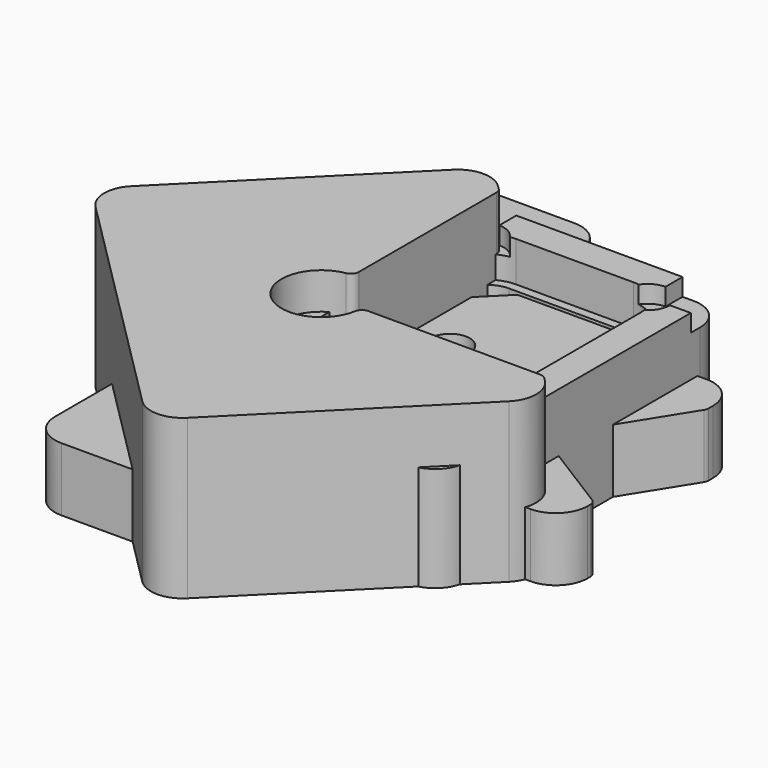
from build123d import *

# Parameters (mm, degrees)
SKETCH003_W             = 15.88
SKETCH003_H             = 22.34
PAD001_DEPTH            = 7.7
POCKET002_DEPTH         = 5.7
POCKET003_DEPTH         = 2.52
SKETCH007_W             = 5.44
SKETCH007_H             = 2.67
POCKET004_DEPTH         = 5.7
POCKET005_DEPTH         = 7.701
POCKET006_DEPTH         = 2
POCKET007_DEPTH         = 1.1
FILLET_R                = 1
FILLET001_R             = 2
FILLET011_R             = 0.5
BODY001_PLACEMENT_ANGLE = 180
PAD_DEPTH               = 4
FILLET002_R             = 0.5
FILLET003_R             = 0.5
FILLET004_R             = 2
FILLET012_R             = 2
BODY_PLACEMENT_ANGLE    = 90
PAD009_DEPTH            = 5
FILLET007_R             = 0.5
FILLET008_R             = 2
BODY010_PLACEMENT_ANGLE = 270
PAD010_DEPTH            = 10
FILLET005_R             = 0.5
FILLET006_R             = 2
PAD011_DEPTH            = 4
POCKET_DEPTH            = 1.89
FILLET009_R             = 0.5
FILLET010_R             = 2
BODY012_PLACEMENT_ANGLE = 180


with BuildPart() as obj1:
    # Sketch003 (on XY_Plane013 of Origin026) → Pad001 (new body)
    with BuildSketch(Plane.XY):
        Rectangle(SKETCH003_W, SKETCH003_H)
    extrude(amount=PAD001_DEPTH)

    # Sketch004 (on XY_Plane013 of Origin026) → Pocket002 (cut)
    with BuildSketch(Plane.XY):
        with BuildLine():
            Line((-3.69, 8.67), (3.69, 8.67))
            ThreePointArc((5.44, 6.92), (4.927437, 8.157437), (3.69, 8.67))
            Line((5.44, 6.92), (5.44, -6.92))
            ThreePointArc((3.69, -8.67), (4.927437, -8.157437), (5.44, -6.92))
            Line((3.69, -8.67), (-3.69, -8.67))
            ThreePointArc((-5.44, -6.92), (-4.927437, -8.157437), (-3.69, -8.67))
            Line((-5.44, -6.92), (-5.44, 6.92))
            ThreePointArc((-3.69, 8.67), (-4.927437, 8.157437), (-5.44, 6.92))
        make_face()
    extrude(amount=POCKET002_DEPTH, mode=Mode.SUBTRACT)

    # Sketch006 (on XY_Plane013 of Origin026) → Pocket003 (cut)
    with BuildSketch(Plane.XY):
        with BuildLine():
            Line((5.99, 6.92), (5.99, -6.92))
            ThreePointArc((3.69, -9.22), (5.316346, -8.546346), (5.99, -6.92))
            Line((3.69, -9.22), (-3.69, -9.22))
            ThreePointArc((-5.99, -6.92), (-5.316346, -8.546346), (-3.69, -9.22))
            Line((-5.99, -6.92), (-5.99, 6.92))
            ThreePointArc((-3.69, 9.22), (-5.316346, 8.546346), (-5.99, 6.92))
            Line((-3.69, 9.22), (-3.47, 9.22))
            ThreePointArc((-3.47, 9.22), (-2.93967, 9.43967), (-2.72, 9.97))
            Line((-2.72, 11.17), (-2.72, 9.97))
            Line((2.72, 11.17), (-2.72, 11.17))
            Line((2.72, 11.17), (2.72, 9.97))
            ThreePointArc((2.72, 9.97), (2.93967, 9.43967), (3.47, 9.22))
            Line((3.69, 9.22), (3.47, 9.22))
            ThreePointArc((5.99, 6.92), (5.316346, 8.546346), (3.69, 9.22))
        make_face()
    extrude(amount=POCKET003_DEPTH, mode=Mode.SUBTRACT)

    # Sketch007 (on XY_Plane013 of Origin026) → Pocket004 (cut)
    with BuildSketch(Plane.XY):
        with Locations((0, 9.835)):
            Rectangle(SKETCH007_W, SKETCH007_H)
    extrude(amount=POCKET004_DEPTH, mode=Mode.SUBTRACT)

    # Sketch008 (on XY_Plane013 of Origin026) → Pocket005 (cut, through all)
    with BuildSketch(Plane.XY):
        with BuildLine():
            Line((2.72, 11.17), (2.72, 9.97))
            ThreePointArc((1.97, 9.22), (2.50033, 9.43967), (2.72, 9.97))
            Line((1.97, 9.22), (-1.97, 9.22))
            ThreePointArc((-2.72, 9.97), (-2.50033, 9.43967), (-1.97, 9.22))
            Line((-2.72, 11.17), (-2.72, 9.97))
            Line((2.72, 11.17), (-2.72, 11.17))
        make_face()
    extrude(amount=POCKET005_DEPTH, mode=Mode.SUBTRACT)

    # Sketch009 (on XY_Plane013 of Origin026) → Pocket006 (cut)
    with BuildSketch(Plane.XY.offset(7.7)):
        with BuildLine():
            Line((-0.77, -0.58), (-0.77, -7.7))
            ThreePointArc((-1.52, -8.45), (-0.98967, -8.23033), (-0.77, -7.7))
            Line((-3.56, -8.45), (-1.52, -8.45))
            ThreePointArc((-4.31, -7.7), (-4.09033, -8.23033), (-3.56, -8.45))
            Line((-4.31, -7.7), (-4.31, -0.58))
            ThreePointArc((-3.56, 0.17), (-4.09033, -0.04967), (-4.31, -0.58))
            Line((-3.56, 0.17), (-1.52, 0.17))
            ThreePointArc((-0.77, -0.58), (-0.98967, -0.04967), (-1.52, 0.17))
        make_face()
        with BuildLine():
            Line((0.77, -0.58), (0.77, -7.7))
            ThreePointArc((0.77, -7.7), (0.98967, -8.23033), (1.52, -8.45))
            Line((1.52, -8.45), (3.56, -8.45))
            ThreePointArc((3.56, -8.45), (4.09033, -8.23033), (4.31, -7.7))
            Line((4.31, -7.7), (4.31, -0.58))
            ThreePointArc((4.31, -0.58), (4.09033, -0.04967), (3.56, 0.17))
            Line((1.52, 0.17), (3.56, 0.17))
            ThreePointArc((1.52, 0.17), (0.98967, -0.04967), (0.77, -0.58))
        make_face()
    extrude(amount=-POCKET006_DEPTH, mode=Mode.SUBTRACT)

    # Sketch010 (on XY_Plane013 of Origin026) → Pocket007 (cut)
    with BuildSketch(Plane.XY):
        with BuildLine():
            Line((5.23, 13.43), (10.23, 13.43))
            Line((10.23, 13.43), (10.23, 8.43))
            Line((6.63, 8.43), (10.23, 8.43))
            ThreePointArc((5.23, 9.83), (4.240051, 7.440051), (6.63, 8.43))
            Line((5.23, 9.83), (5.23, 13.43))
        make_face()
        with BuildLine():
            Line((-5.23, 13.43), (-10.23, 13.43))
            Line((-10.23, 13.43), (-10.23, 8.43))
            Line((-10.23, 8.43), (-6.63, 8.43))
            ThreePointArc((-6.63, 8.43), (-4.240051, 7.440051), (-5.23, 9.83))
            Line((-5.23, 13.43), (-5.23, 9.83))
        make_face()
        with BuildLine():
            Line((5.23, -13.43), (10.23, -13.43))
            Line((10.23, -13.43), (10.23, -8.43))
            Line((6.63, -8.43), (10.23, -8.43))
            ThreePointArc((6.63, -8.43), (4.240051, -7.440051), (5.23, -9.83))
            Line((5.23, -13.43), (5.23, -9.83))
        make_face()
        with BuildLine():
            Line((-10.23, -13.43), (-5.23, -13.43))
            Line((-5.23, -13.43), (-5.23, -9.83))
            ThreePointArc((-5.23, -9.83), (-4.240051, -7.440051), (-6.63, -8.43))
            Line((-10.23, -8.43), (-6.63, -8.43))
            Line((-10.23, -13.43), (-10.23, -8.43))
        make_face()
    extrude(amount=POCKET007_DEPTH, mode=Mode.SUBTRACT)

    # Fillet
    fillet_edges = [obj1.edges().sort_by_distance(p)[0] for p in [
        (2.72, 11.17, 3.85),
        (-2.72, 11.17, 3.85),
    ]]
    fillet(fillet_edges, radius=FILLET_R)

    # Fillet001
    fillet001_edges = [obj1.edges().sort_by_distance(p)[0] for p in [
        (7.94, 11.17, 4.4),
        (-7.94, 11.17, 4.4),
        (-7.94, -11.17, 4.4),
        (7.94, -11.17, 4.4),
    ]]
    fillet(fillet001_edges, radius=FILLET001_R)

    # Fillet011
    fillet011_edges = [obj1.edges().sort_by_distance(p)[0] for p in [
        (2.72, 8.67, 4.11),
        (-2.72, 8.67, 4.11),
    ]]
    fillet(fillet011_edges, radius=FILLET011_R)


with BuildPart() as obj1_1:
    # Body001 placement: moved
    add(obj1.part.moved(Location((0, 0, 7.7))).rotate(Axis((0, 0, 7.7), (1, 0, 0)), BODY001_PLACEMENT_ANGLE))


with BuildPart() as obj2:
    # Sketch (on XZ_Plane023 of Origin046) → Pad (new body)
    with BuildSketch(Plane.XZ):
        with BuildLine():
            Line((-14, 27.248738), (-14, 61.271541))
            Line((-3.069202, 61.271541), (-14, 61.271541))
            Line((-3.069202, 58.771541), (-3.069202, 61.271541))
            Line((-8.369502, 55.459546), (-3.069202, 58.771541))
            ThreePointArc((-8.369502, 55.459546), (-10.647525, 55.078335), (-8.767163, 53.737086))
            Line((-8.767163, 53.737086), (-4.925249, 47.588738))
            ThreePointArc((-4.925249, 47.588738), (-3.834829, 46.810949), (-2.513806, 47.032012))
            Line((5.99922, 52.351541), (-2.513806, 47.032012))
            Line((12.380798, 52.351541), (5.99922, 52.351541))
            Line((12.380798, 49.851541), (12.380798, 52.351541))
            Line((7.080498, 46.539546), (12.380798, 49.851541))
            ThreePointArc((7.080498, 46.539546), (4.802475, 46.158335), (6.682837, 44.817086))
            Line((6.682837, 44.817086), (10.524751, 38.668738))
            Line((10.524751, 38.668738), (10.524751, 36.168738))
            Line((10.524751, 36.168738), (1.97049, 36.168738))
            Line((1.97049, 36.168738), (-0.657759, 40.374816))
            ThreePointArc((-0.657759, 40.374816), (-1.748179, 41.152605), (-3.069202, 40.931541))
            Line((-8.369502, 37.619546), (-3.069202, 40.931541))
            ThreePointArc((-8.369502, 37.619546), (-10.647525, 37.238335), (-8.767163, 35.897086))
            Line((-8.767163, 35.897086), (-4.925249, 29.748738))
            Line((-4.925249, 29.748738), (-4.925249, 27.248738))
            Line((-4.925249, 27.248738), (-14, 27.248738))
        make_face()
    extrude(amount=-PAD_DEPTH)

    # Fillet002
    fillet002_edges = [obj2.edges().sort_by_distance(p)[0] for p in [
        (-4.925249, 2, 29.748738),
        (-3.069202, 2, 58.771541),
        (12.380798, 2, 49.851541),
        (10.524751, 2, 38.668738),
    ]]
    fillet(fillet002_edges, radius=FILLET002_R)

    # Fillet003
    fillet003_edges = [obj2.edges().sort_by_distance(p)[0] for p in [
        (7.080498, 2, 46.539546),
        (6.682837, 2, 44.817086),
        (-8.369502, 2, 55.459546),
        (-8.767163, 2, 53.737086),
        (-8.369502, 2, 37.619546),
        (-8.767163, 2, 35.897086),
    ]]
    fillet(fillet003_edges, radius=FILLET003_R)

    # Fillet004
    fillet004_edges = [obj2.edges().sort_by_distance(p)[0] for p in [
        (-14, 2, 27.248738),
        (-14, 2, 61.271541),
        (-3.069202, 2, 61.271541),
        (-4.925249, 2, 27.248738),
        (10.524751, 2, 36.168738),
        (12.380798, 2, 52.351541),
    ]]
    fillet(fillet004_edges, radius=FILLET004_R)

    # Fillet012
    fillet012_edges = [obj2.edges().sort_by_distance(p)[0] for p in [
        (1.97049, 2, 36.168738),
        (5.99922, 2, 52.351541),
    ]]
    fillet(fillet012_edges, radius=FILLET012_R)


with BuildPart() as obj2_1:
    # Body placement: moved
    add(obj2.part.moved(Location((0, 45.12, 0))).rotate(Axis((0, 45.12, 0), (1, 0, 0)), BODY_PLACEMENT_ANGLE))


with BuildPart() as body010:
    # Sketch032 (on XY_Plane024 of Origin048) → Pad009 (new body)
    with BuildSketch(Plane.XY):
        with BuildLine():
            ThreePointArc((-2.38, -1.13), (-3.263883, -3.263883), (-1.13, -2.38))
            Line((-1.13, -2.38), (5.12, -2.38))
            Line((5.12, -2.38), (6.887767, -4.147767))
            Line((6.887767, -4.147767), (-0.397767, -11.433301))
            Line((-11.933301, 0.102233), (-0.397767, -11.433301))
            Line((-4.147767, 7.887767), (-11.933301, 0.102233))
            Line((-2.38, 6.12), (-4.147767, 7.887767))
            Line((-2.38, -1.13), (-2.38, 6.12))
        make_face()
    extrude(amount=PAD009_DEPTH)

    # Fillet007
    fillet007_edges = [body010.edges().sort_by_distance(p)[0] for p in [
        (-2.38, -1.13, 2.5),
        (-1.13, -2.38, 2.5),
        (-2.38, 6.12, 2.5),
        (5.12, -2.38, 2.5),
    ]]
    fillet(fillet007_edges, radius=FILLET007_R)

    # Fillet008
    fillet008_edges = [body010.edges().sort_by_distance(p)[0] for p in [
        (-4.147767, 7.887767, 2.5),
        (6.887767, -4.147767, 2.5),
        (-11.933301, 0.102233, 2.5),
        (-0.397767, -11.433301, 2.5),
    ]]
    fillet(fillet008_edges, radius=FILLET008_R)


with BuildPart() as body010_1:
    # Body010 placement: moved
    add(body010.part.rotate(Axis((0, 0, 0), (0, 0, 1)), BODY010_PLACEMENT_ANGLE))


with BuildPart() as obj3:
    # Sketch033 (on XY_Plane025 of Origin050) → Pad010 (new body)
    with BuildSketch(Plane.XY):
        with BuildLine():
            ThreePointArc((-4.76, 12.13), (-6.527767, 7.862233), (-2.26, 9.63))
            Line((9.24, 9.63), (-2.26, 9.63))
            Line((9.24, 9.63), (11.007767, 7.862233))
            Line((11.007767, 7.862233), (-3.063301, -6.208835))
            Line((-20.598835, 11.326699), (-3.063301, -6.208835))
            Line((-6.527767, 25.397767), (-20.598835, 11.326699))
            Line((-4.76, 23.63), (-6.527767, 25.397767))
            Line((-4.76, 12.13), (-4.76, 23.63))
        make_face()
    extrude(amount=PAD010_DEPTH)

    # Fillet005
    fillet005_edges = [obj3.edges().sort_by_distance(p)[0] for p in [
        (-4.76, 12.13, 5),
        (-2.26, 9.63, 5),
        (-4.76, 23.63, 5),
        (9.24, 9.63, 5),
    ]]
    fillet(fillet005_edges, radius=FILLET005_R)

    # Fillet006
    fillet006_edges = [obj3.edges().sort_by_distance(p)[0] for p in [
        (-6.527767, 25.397767, 5),
        (11.007767, 7.862233, 5),
        (-20.598835, 11.326699, 5),
        (-3.063301, -6.208835, 5),
    ]]
    fillet(fillet006_edges, radius=FILLET006_R)


with BuildPart() as obj3_1:
    # Body011 placement: moved
    add(obj3.part.moved(Location((0, -14.39, 0))))


with BuildPart() as body012:
    # Sketch034 (on XY_Plane024 of Origin052) → Pad011 (new body)
    with BuildSketch(Plane.XY):
        with BuildLine():
            Line((-10.433301, -1.397767), (-1.397767, -10.433301))
            Line((6.887767, -2.147767), (-1.397767, -10.433301))
            Line((5.12, -0.38), (6.887767, -2.147767))
            Line((5.12, -0.38), (0.827361, -1.923227))
            ThreePointArc((-1.923227, 0.827361), (-1.42028, -1.42028), (0.827361, -1.923227))
            Line((-0.38, 5.12), (-1.923227, 0.827361))
            Line((-0.38, 5.12), (-2.147767, 6.887767))
            Line((-2.147767, 6.887767), (-10.433301, -1.397767))
        make_face()
    extrude(amount=PAD011_DEPTH)

    # Sketch035 (on XY_Plane026 of Origin052) → Pocket (cut)
    with BuildSketch(Plane.XY):
        with BuildLine():
            ThreePointArc((-2.38, -1.13), (-3.263883, -3.263883), (-1.13, -2.38))
            Line((-1.13, -2.38), (7.62, -2.38))
            Line((7.62, 7.62), (7.62, -2.38))
            Line((-2.38, 7.62), (7.62, 7.62))
            Line((-2.38, -1.13), (-2.38, 7.62))
        make_face()
    extrude(amount=POCKET_DEPTH, mode=Mode.SUBTRACT)

    # Fillet009
    fillet009_edges = [body012.edges().sort_by_distance(p)[0] for p in [
        (-0.38, 5.12, 2.945),
        (5.12, -0.38, 2.945),
        (-1.13, -2.38, 0.945),
        (-2.38, -1.13, 0.945),
    ]]
    fillet(fillet009_edges, radius=FILLET009_R)

    # Fillet010
    fillet010_edges = [body012.edges().sort_by_distance(p)[0] for p in [
        (-2.147767, 6.887767, 2.945),
        (6.887767, -2.147767, 2.945),
        (-10.433301, -1.397767, 2),
        (-1.397767, -10.433301, 2),
    ]]
    fillet(fillet010_edges, radius=FILLET010_R)


with BuildPart() as body012_1:
    # Body012 placement: moved
    add(body012.part.moved(Location((0, 0, 4))).rotate(Axis((0, 0, 4), (1, 0, 0)), BODY012_PLACEMENT_ANGLE))


solid = Compound([obj1_1.part, obj2_1.part, body010_1.part, obj3_1.part, body012_1.part])
